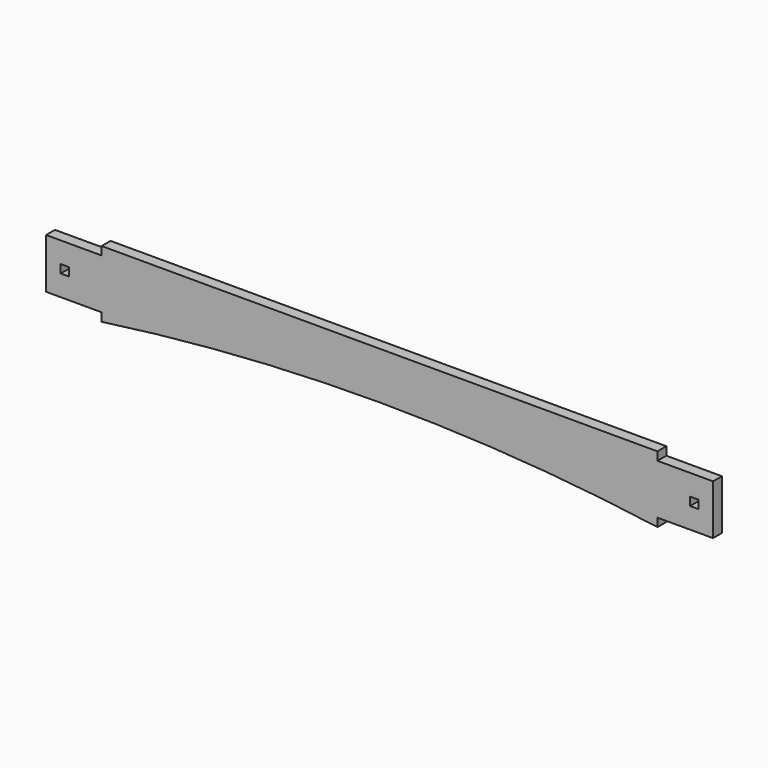
from build123d import *

# Parameters (mm, degrees)
F1_DEPTH = 25.4
F2_W     = 25.4
F2_H     = 114.3
F3_DEPTH = 127
F4_W     = 25.4
F4_H     = 114.3
F5_DEPTH = 127
F6_W     = 19.05
F6_H     = 19.05
F7_DEPTH = 25.401


with BuildPart() as f1:
    # F0 (on Front) → F1 (new body)
    with BuildSketch(Plane.XZ):
        with BuildLine():
            Line((635, -76.2), (635, 76.2))
            Line((635, 76.2), (-635, 76.2))
            Line((-635, 76.2), (-635, -76.2))
            ThreePointArc((-635, -76.2), (0, -31.75), (635, -76.2))
        make_face()
    extrude(amount=F1_DEPTH)

    # F2 (on face) → F3 (join)
    with BuildSketch(Plane(origin=(-635, 0, 0), x_dir=(0, -1, 0), z_dir=(-1, 0, 0))):
        with Locations((12.7, 0)):
            Rectangle(F2_W, F2_H)
    extrude(amount=F3_DEPTH)

    # F4 (on face) → F5 (join)
    with BuildSketch(Plane.YZ.offset(635)):
        with Locations((-12.7, 0)):
            Rectangle(F4_W, F4_H)
    extrude(amount=F5_DEPTH)

    # F6 (on face) → F7 (cut, through all)
    with BuildSketch(Plane.XZ.offset(25.4)):
        with Locations((-719.1375, 0)):
            Rectangle(F6_W, F6_H)
        with Locations((719.1375, 0)):
            Rectangle(F6_W, F6_H)
    extrude(amount=-F7_DEPTH, mode=Mode.SUBTRACT)


solid = f1.part
